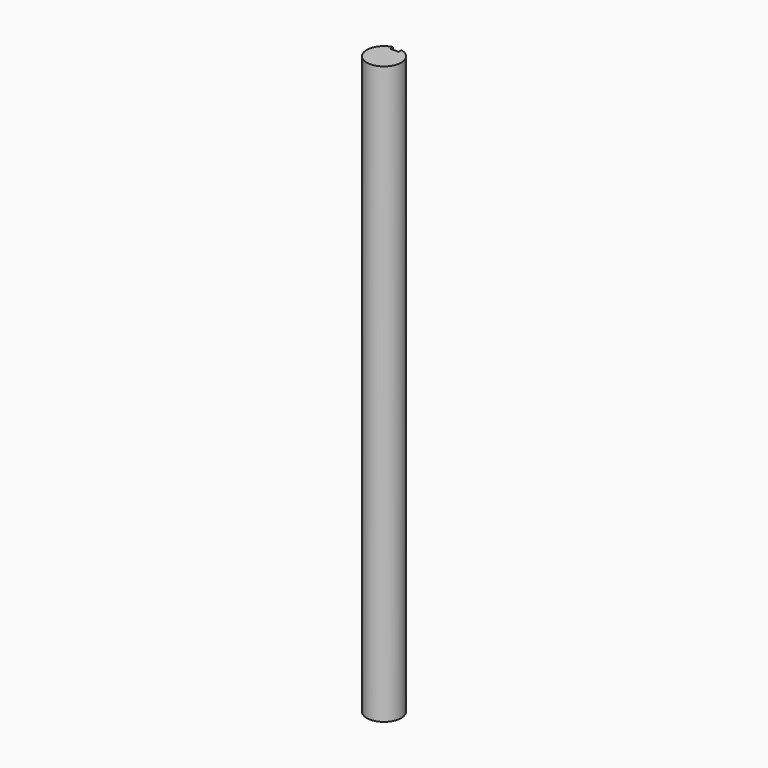
from build123d import *

# Parameters (mm, degrees)
F0_R     = 6.35
F1_DEPTH = 212.725
F3_DEPTH = 212.726


with BuildPart() as f1:
    # F0 (on Top) → F1 (new body)
    with BuildSketch(Plane.XY):
        Circle(F0_R)
    extrude(amount=F1_DEPTH)

    # F2 (on face) → F3 (cut, through all)
    with BuildSketch(Plane.XY.offset(212.725)):
        with BuildLine():
            Line((-1.5875, 4.797501), (1.5875, 4.797501))
            Line((1.5875, 4.797501), (1.5875, 6.148361))
            ThreePointArc((1.5875, 6.148361), (0, 6.35), (-1.5875, 6.148361))
            Line((-1.5875, 6.148361), (-1.5875, 4.797501))
        make_face()
    extrude(amount=-F3_DEPTH, mode=Mode.SUBTRACT)


solid = f1.part
